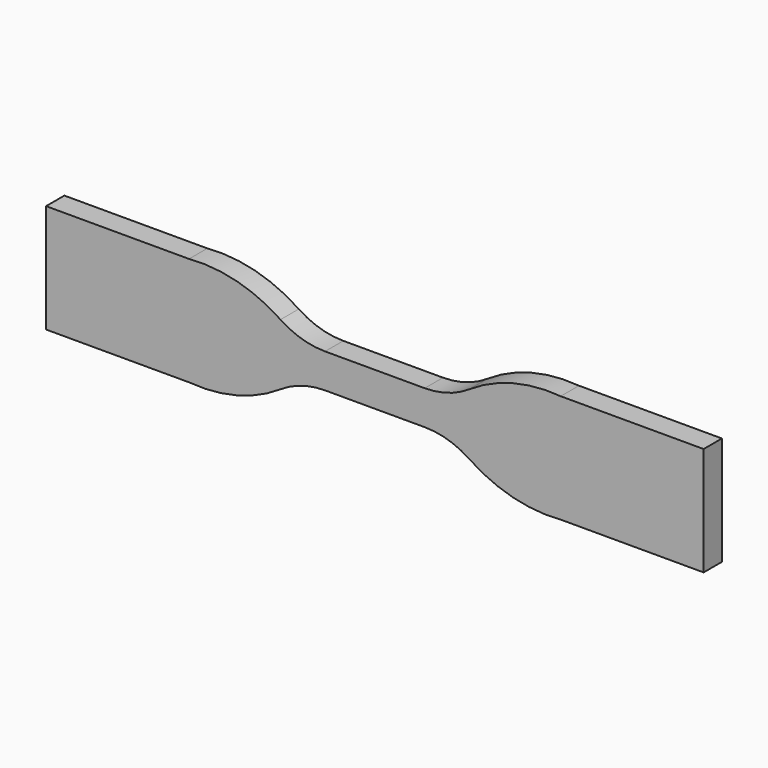
from build123d import *

# Parameters (mm, degrees)
F1_DEPTH = 2


with BuildPart() as f1:
    # F0 (on Front) → F1 (new body, symmetric)
    with BuildSketch(Plane.XZ):
        with BuildLine():
            Line((8.713783, 3), (0, 3))
            Line((0, 3), (-8.713783, 3))
            ThreePointArc((-8.713783, 3), (-12.782507, 3.604274), (-16.5, 5.364931))
            ThreePointArc((-16.5, 5.364931), (-24.148447, 8.792745), (-32.5, 9.5))
            Line((-32.5, 9.5), (-57.5, 9.5))
            Line((-57.5, 9.5), (-57.5, -9.5))
            Line((-57.5, -9.5), (-32.5, -9.5))
            ThreePointArc((-32.5, -9.5), (-24.148447, -8.792745), (-16.5, -5.364931))
            ThreePointArc((-16.5, -5.364931), (-12.782507, -3.604274), (-8.713783, -3))
            Line((-8.713783, -3), (0, -3))
            Line((0, -3), (8.713783, -3))
            ThreePointArc((8.713783, -3), (12.782507, -3.604274), (16.5, -5.364931))
            ThreePointArc((16.5, -5.364931), (24.148447, -8.792745), (32.5, -9.5))
            Line((32.5, -9.5), (57.5, -9.5))
            Line((57.5, -9.5), (57.5, 9.5))
            Line((57.5, 9.5), (32.5, 9.5))
            ThreePointArc((32.5, 9.5), (24.148447, 8.792745), (16.5, 5.364931))
            ThreePointArc((16.5, 5.364931), (12.782507, 3.604274), (8.713783, 3))
        make_face()
    extrude(amount=F1_DEPTH, both=True)


solid = f1.part
